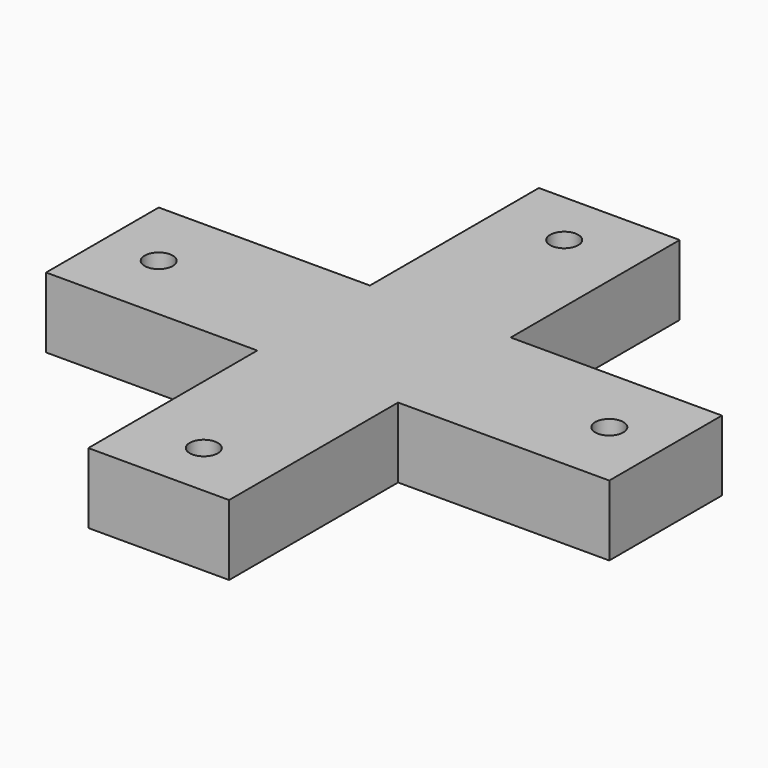
from build123d import *

# Parameters (mm, degrees)
SKETCH_R  = 2
PAD_DEPTH = 10


with BuildPart() as part:
    # Sketch → Pad (new body)
    with BuildSketch(Plane.XY):
        Polygon((-10, 40), (10, 40), (10, 10), (40, 10), (40, -10), (10, -10), (10, -40), (-10, -40), (-10, -10), (-40, -10), (-40, 10), (-10, 10), align=None)
        with Locations((0, 32)):
            Circle(SKETCH_R, mode=Mode.SUBTRACT)
        with Locations((32, 0)):
            Circle(SKETCH_R, mode=Mode.SUBTRACT)
        with Locations((0, -32)):
            Circle(SKETCH_R, mode=Mode.SUBTRACT)
        with Locations((-32, 0)):
            Circle(SKETCH_R, mode=Mode.SUBTRACT)
    extrude(amount=PAD_DEPTH)


solid = part.part
